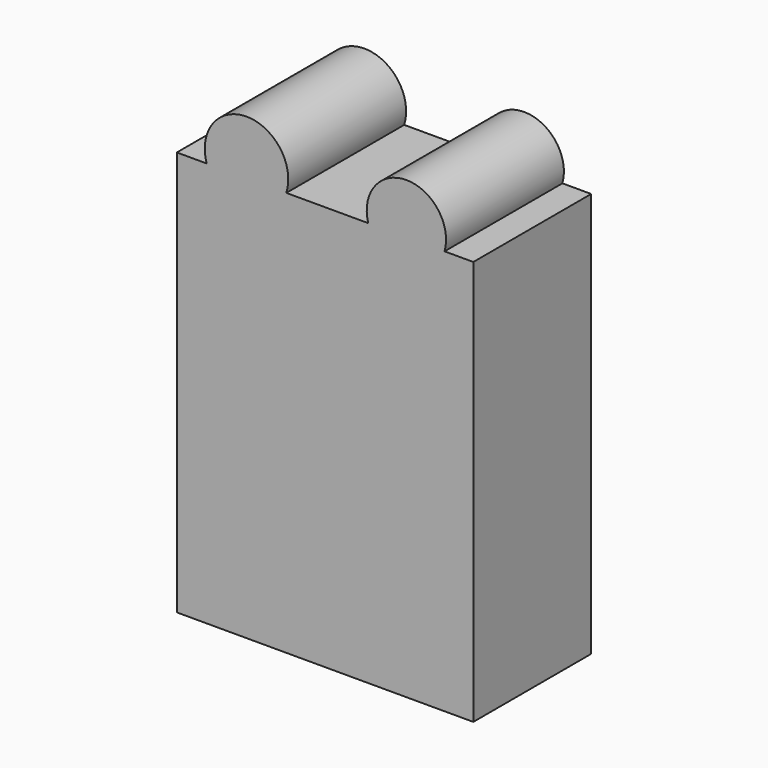
from build123d import *

# Parameters (mm, degrees)
F1_DEPTH = 25.4


with BuildPart() as f1:
    # F0 (on Front) → F1 (new body)
    with BuildSketch(Plane.XZ):
        Polygon((-16.783981, 34.04478), (-21.933611, 34.04478), (-21.933611, -35.761323), (29.18124, -35.761323), (29.18124, 34.04478), (24.222337, 34.04478), (11.06217, 34.04478), (-3.051633, 34.04478), align=None)
        with BuildLine():
            ThreePointArc((-3.051633, 34.04478), (-9.917807, 43.40052), (-16.783981, 34.04478))
            Line((-16.783981, 34.04478), (-3.051633, 34.04478))
        make_face()
        with BuildLine():
            ThreePointArc((24.222337, 34.04478), (17.642254, 42.736658), (11.06217, 34.04478))
            Line((11.06217, 34.04478), (24.222337, 34.04478))
        make_face()
    extrude(amount=F1_DEPTH)


solid = f1.part
